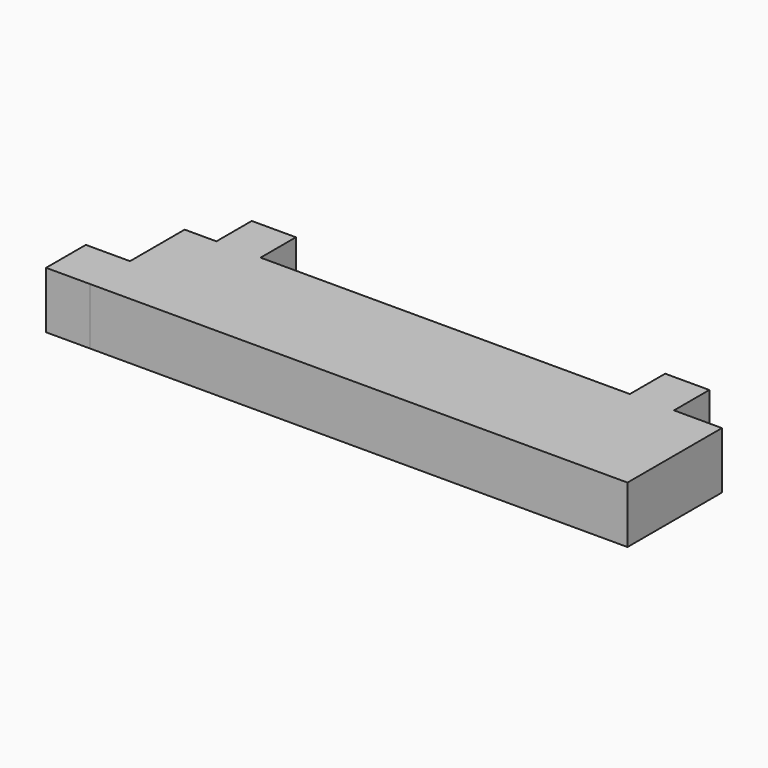
from build123d import *

# Parameters (mm, degrees)
F0_W     = 20
F0_H     = 7
F0_W_2   = 7
F0_H_2   = 7.875001
F1_DEPTH = 9
F2_DEPTH = 7.5


with BuildPart() as f1:
    # F0 (on Top) → F1 (new body)
    with BuildSketch(Plane.XY):
        Polygon((-39.375005, 7.875001), (-39.375005, 0), (45.783415, 0), (45.783415, 18.708905), (38.187098, 18.708905), (31.187098, 18.708905), (-27.343754, 18.708905), (-34.343754, 18.708905), (-39.375005, 18.708905), align=None)
        with Locations((-20.899706, 9.230794)):
            Rectangle(F0_W, F0_H, mode=Mode.SUBTRACT)
        with Locations((-42.875005, 3.9375)):
            Rectangle(F0_W_2, F0_H_2)
        with Locations((34.687098, 22.208905)):
            Rectangle(F0_W_2, F0_H)
        with Locations((-30.843754, 22.208905)):
            Rectangle(F0_W_2, F0_H)
        with Locations((-20.899706, 9.230794)):
            Rectangle(F0_W, F0_H)
    extrude(amount=F1_DEPTH)

    # F0 (on Top) → F2 (cut)
    with BuildSketch(Plane.XY):
        with Locations((-20.899706, 9.230794)):
            Rectangle(F0_W, F0_H)
    extrude(amount=F2_DEPTH, mode=Mode.SUBTRACT)


solid = f1.part
